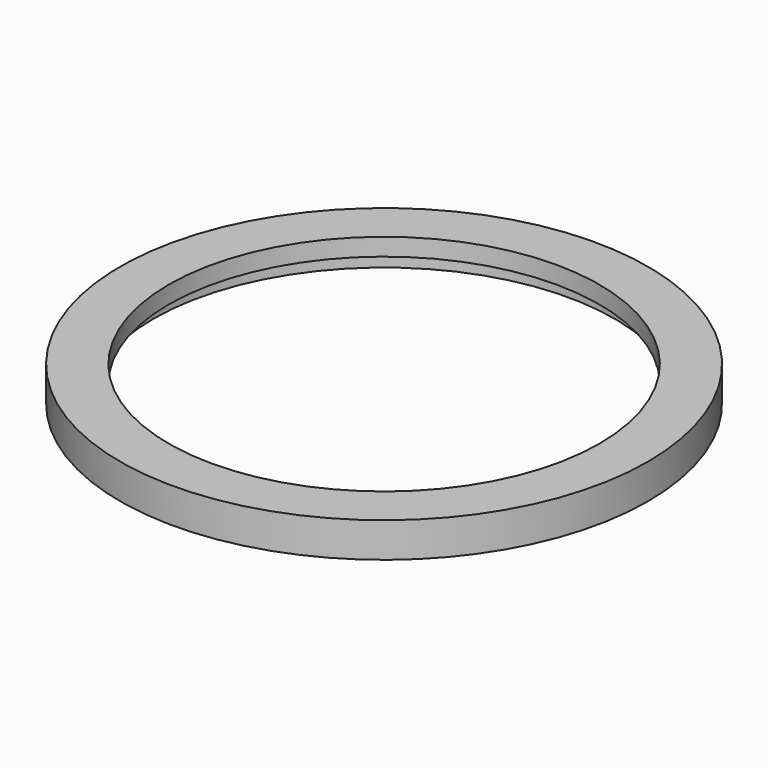
from build123d import *

# Parameters (mm, degrees)
F0_R     = 48.006
F0_R_2   = 39.1668
F1_DEPTH = 6.35
F2_R     = 41.91
F3_DEPTH = 3.175


with BuildPart() as f1:
    # F0 (on Top) → F1 (new body)
    with BuildSketch(Plane.XY):
        Circle(F0_R)
        Circle(F0_R_2, mode=Mode.SUBTRACT)
    extrude(amount=F1_DEPTH)

    # F2 (on face) → F3 (cut)
    with BuildSketch(Plane(origin=(0, 0, 0), x_dir=(1, 0, 0), z_dir=(0, 0, -1))):
        Circle(F2_R)
    extrude(amount=-F3_DEPTH, mode=Mode.SUBTRACT)


solid = f1.part
